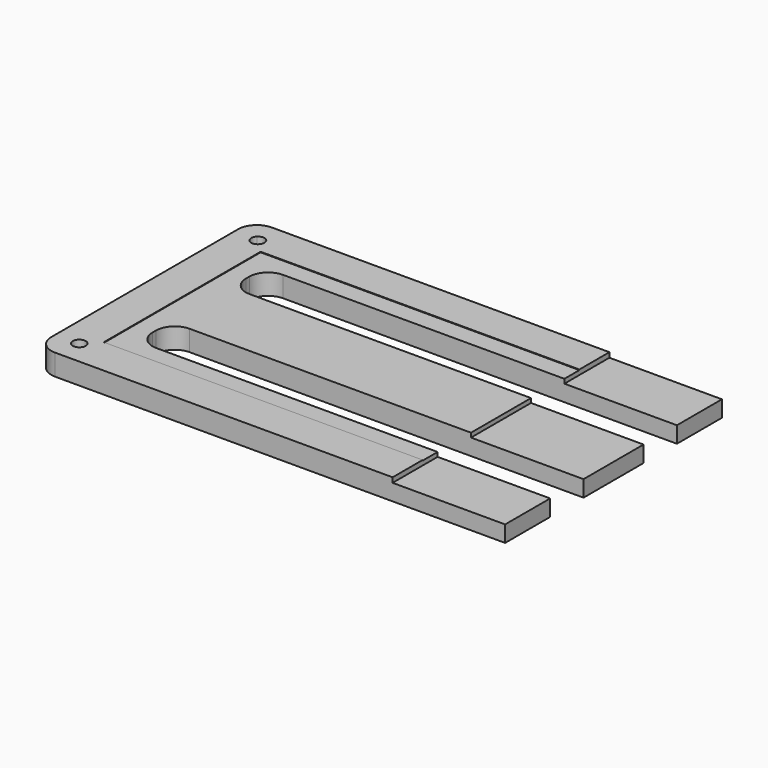
from build123d import *

# Parameters (mm, degrees)
F0_W      = 210
F0_H      = 52.25
F0_W_2    = 200
F0_H_2    = 42.25
F1_DEPTH  = 5.5
F0_W_3    = 230
F0_H_3    = 72.25
F2_DEPTH  = 5.65
F4_DEPTH  = 100
F6_DEPTH  = 5
F7_SIZE   = 1.75
F8_R      = 5
F9_R      = 5
F10_W     = 20
F10_H     = 5.5
F11_DEPTH = 110
F12_W     = 30
F12_H     = 1.15
F13_DEPTH = 25
F14_R     = 5


with BuildPart() as f1:
    # F0 (on Top) → F1 (new body)
    with BuildSketch(Plane.XY):
        with Locations((-28.3456140757, 0)):
            Rectangle(F0_W, F0_H)
        with Locations((-28.3456140757, 0)):
            Rectangle(F0_W_2, F0_H_2, mode=Mode.SUBTRACT)
    extrude(amount=F1_DEPTH)

    # F0 (on Top) → F2 (join)
    with BuildSketch(Plane.XY):
        with Locations((-28.3456140757, 0)):
            Rectangle(F0_W_3, F0_H_3)
        with Locations((-28.3456140757, 0)):
            Rectangle(F0_W, F0_H, mode=Mode.SUBTRACT)
    extrude(amount=F2_DEPTH)

    # F3 (on face) → F4 (cut)
    with BuildSketch(Plane.XZ.offset(36.125)):
        Polygon((-48.3456140757, 5.65), (-48.3456140757, 4.35), (-18.3456140757, 4.35), (-18.3456140757, 0), (86.6543859243, 0), (86.6543859243, 5.65), align=None)
    extrude(amount=-F4_DEPTH, mode=Mode.SUBTRACT)

    # F5 (on face) → F6 (cut)
    with BuildSketch(Plane.XY.offset(5.65)):
        with BuildLine():
            ThreePointArc((-135.231653045, 29.7610389693), (-136.3119570383, 31.3778281512), (-138.2190899121, 30.9984758364))
            Line((-138.2190899121, 30.9984758364), (-135.7442161779, 28.5236021022))
            ThreePointArc((-135.7442161779, 28.5236021022), (-135.3648638631, 29.0913429627), (-135.231653045, 29.7610389693))
        make_face()
        with BuildLine():
            Line((-135.7442161779, 28.5236021022), (-138.2190899121, 30.9984758364))
            ThreePointArc((-138.2190899121, 30.9984758364), (-138.2190899121, 28.5236021022), (-135.7442161779, 28.5236021022))
        make_face()
        with BuildLine():
            ThreePointArc((-135.7442161779, -28.5236021022), (-138.2190899121, -28.5236021022), (-138.2190899121, -30.9984758364))
            Line((-138.2190899121, -30.9984758364), (-135.7442161779, -28.5236021022))
        make_face()
        with BuildLine():
            Line((-135.7442161779, -28.5236021022), (-138.2190899121, -30.9984758364))
            ThreePointArc((-138.2190899121, -30.9984758364), (-136.3119570383, -31.3778281512), (-135.231653045, -29.7610389693))
            ThreePointArc((-135.231653045, -29.7610389693), (-135.3648638631, -29.0913429627), (-135.7442161779, -28.5236021022))
        make_face()
    extrude(amount=-F6_DEPTH, mode=Mode.SUBTRACT)

    # F7
    f7_edges = [f1.edges().sort_by_distance(p)[0] for p in [
        (-135.744216, -28.523602, 0.65),
        (-138.731653, 29.761039, 0.65),
    ]]
    chamfer(f7_edges, length=F7_SIZE)

    # F8
    f8_edges = [f1.edges().sort_by_distance(p)[0] for p in [
        (-143.345614, 36.125, 2.825),
        (-143.345614, -36.125, 2.825),
    ]]
    fillet(f8_edges, radius=F8_R)

    # F9
    f9_edges = [f1.edges().sort_by_distance(p)[0] for p in [
        (-128.345614, -21.125, 2.75),
        (-128.345614, 21.125, 2.75),
    ]]
    fillet(f9_edges, radius=F9_R)

    # F10 (on face) → F11 (join)
    with BuildSketch(Plane.YZ.offset(-128.3456140757)):
        with Locations((0, 2.75)):
            Rectangle(F10_W, F10_H)
    extrude(amount=F11_DEPTH)

    # F12 (on face) → F13 (cut)
    with BuildSketch(Plane.XZ.offset(10)):
        with Locations((-33.3456140757, 4.925)):
            Rectangle(F12_W, F12_H)
    extrude(amount=-F13_DEPTH, mode=Mode.SUBTRACT)

    # F14
    f14_edges = [f1.edges().sort_by_distance(p)[0] for p in [
        (-128.345614, -10, 2.75),
        (-128.345614, 10, 2.75),
    ]]
    fillet(f14_edges, radius=F14_R)


solid = f1.part
